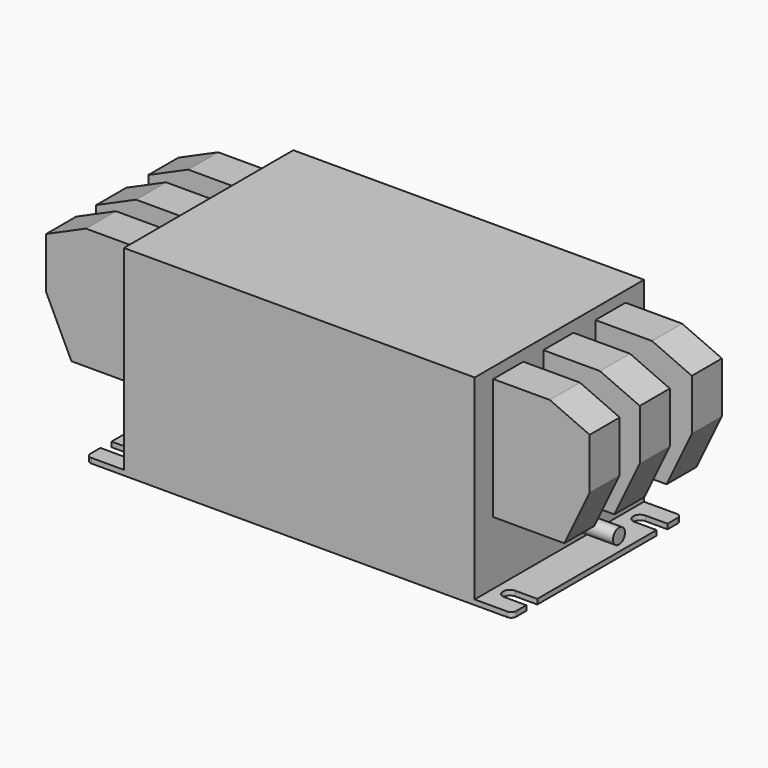
from build123d import *

# Parameters (mm, degrees)
F1_DEPTH = 2
F2_W     = 140
F2_H     = 84.5
F3_DEPTH = 78
F4_W     = 15
F4_H     = 48.5
F5_DEPTH = 38.5
F7_DEPTH = 200
F8_R     = 3
F9_DEPTH = 24


with BuildPart() as f1:
    # F0 (on Top) → F1 (new body)
    with BuildSketch(Plane.XY):
        with BuildLine():
            ThreePointArc((85, 40.25), (84.414214, 41.664214), (83, 42.25))
            Line((83, 42.25), (-83, 42.25))
            ThreePointArc((-83, 42.25), (-84.414214, 41.664214), (-85, 40.25))
            Line((-85, 40.25), (-85, 35.25))
            Line((-85, 35.25), (-76.25, 35.25))
            ThreePointArc((-76.25, 35.25), (-73.5, 32.5), (-76.25, 29.75))
            Line((-76.25, 29.75), (-85, 29.75))
            Line((-85, 29.75), (-85, -29.75))
            Line((-85, -29.75), (-76.25, -29.75))
            ThreePointArc((-76.25, -29.75), (-73.5, -32.5), (-76.25, -35.25))
            Line((-76.25, -35.25), (-85, -35.25))
            Line((-85, -35.25), (-85, -40.25))
            ThreePointArc((-85, -40.25), (-84.414214, -41.664214), (-83, -42.25))
            Line((-83, -42.25), (83, -42.25))
            ThreePointArc((83, -42.25), (84.414214, -41.664214), (85, -40.25))
            Line((85, -40.25), (85, -35.25))
            Line((85, -35.25), (76.25, -35.25))
            ThreePointArc((76.25, -35.25), (73.5, -32.5), (76.25, -29.75))
            Line((76.25, -29.75), (85, -29.75))
            Line((85, -29.75), (85, 29.75))
            Line((85, 29.75), (76.25, 29.75))
            ThreePointArc((76.25, 29.75), (73.5, 32.5), (76.25, 35.25))
            Line((76.25, 35.25), (85, 35.25))
            Line((85, 35.25), (85, 40.25))
        make_face()
    extrude(amount=F1_DEPTH)

    # F2 (on face) → F3 (join)
    with BuildSketch(Plane.XY.offset(2)):
        Rectangle(F2_W, F2_H)
    extrude(amount=F3_DEPTH)


with BuildPart() as f5:
    # F4 (on face) → F5 (new body)
    with BuildSketch(Plane(origin=(-70, 0, 0), x_dir=(0, -1, 0), z_dir=(-1, 0, 0))):
        with Locations((-25.5, 51.45)):
            Rectangle(F4_W, F4_H)
        Polygon((7, 75.7), (-7, 75.7), (-7, 27.2), (7, 27.2), (8, 27.2), (8, 75.7), align=None)
        with Locations((25.5, 51.45)):
            Rectangle(F4_W, F4_H)
    extrude(amount=F5_DEPTH)

    # F6 (on face) → F7 (cut)
    with BuildSketch(Plane.XZ.offset(33)):
        Polygon((-108.5, 48.299946), (-108.5, 68.622813), (-92.581049, 75.7), (-156.796485, 106.618979), (-183.457196, 103.239452), (-183.457196, 0), (-98.381154, 27.2), align=None)
    extrude(amount=-F7_DEPTH, mode=Mode.SUBTRACT)


with BuildPart() as f9:
    # F8 (on face) → F9 (new body)
    with BuildSketch(Plane(origin=(-70, 0, 0), x_dir=(0, -1, 0), z_dir=(-1, 0, 0))):
        with Locations((0.25, 15)):
            Circle(F8_R)
    extrude(amount=F9_DEPTH)


with BuildPart() as f10_1:
    # F10: instance of F5
    add(f5.part.mirror(Plane.YZ))


with BuildPart() as f10_2:
    # F10: instance of F9
    add(f9.part.mirror(Plane.YZ))


solid = Compound([f1.part, f5.part, f9.part, f10_1.part, f10_2.part])
